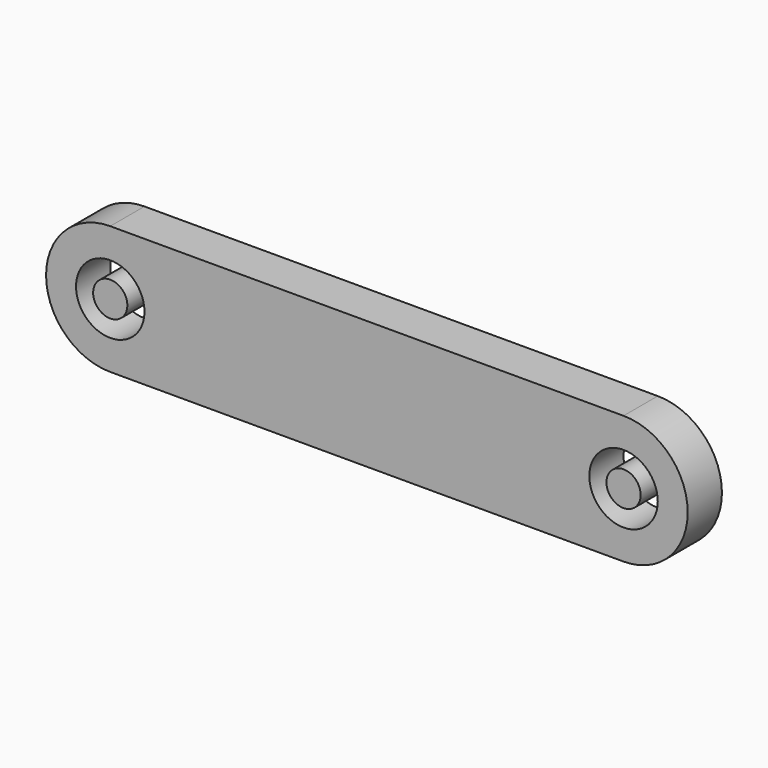
from build123d import *

# Parameters (mm, degrees)
F0_R     = 50.8
F1_DEPTH = 127
F0_R_2   = 101.6


with BuildPart() as f1:
    # F0 (on Front) → F1 (new body)
    with BuildSketch(Plane.XZ):
        Circle(F0_R)
    extrude(amount=F1_DEPTH)


with BuildPart() as f1b:
    # F0 (on Front) → F1, piece 2 (new body)
    with BuildSketch(Plane.XZ):
        with BuildLine():
            Line((1524, 190.5), (0, 190.5))
            ThreePointArc((0, 190.5), (-190.5, 0), (0, -190.5))
            Line((0, -190.5), (1524, -190.5))
            ThreePointArc((1524, -190.5), (1714.5, 0), (1524, 190.5))
        make_face()
        Circle(F0_R_2, mode=Mode.SUBTRACT)
        with Locations((1524, 0)):
            Circle(F0_R_2, mode=Mode.SUBTRACT)
    extrude(amount=F1_DEPTH)


with BuildPart() as f1c:
    # F0 (on Front) → F1, piece 3 (new body)
    with BuildSketch(Plane.XZ):
        with Locations((1524, 0)):
            Circle(F0_R)
    extrude(amount=F1_DEPTH)


solid = Compound([f1.part, f1b.part, f1c.part])
